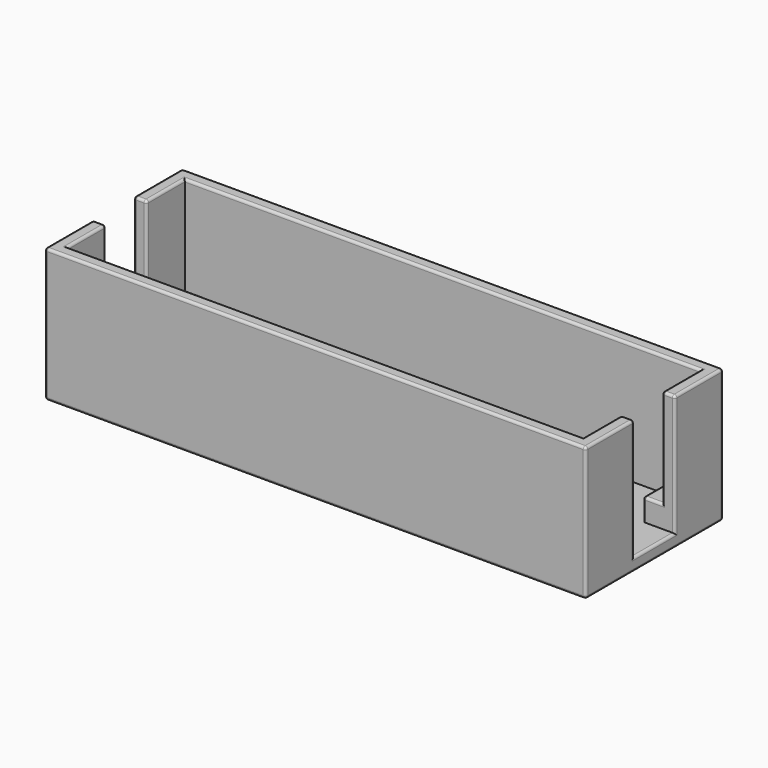
from build123d import *

# Parameters (mm, degrees)
BOX004_W     = 10
BOX004_H     = 8
BOX004_DEPTH = 30
BOX003_W     = 10
BOX003_H     = 8
BOX003_DEPTH = 30
BOX001_W     = 75
BOX001_H     = 23
BOX001_DEPTH = 30
BOX002_W     = 81
BOX002_H     = 23
BOX002_DEPTH = 30
BOX_W        = 85
BOX_H        = 27
BOX_DEPTH    = 21
FILLET_R     = 0.4


with BuildPart() as cube004:
    # Box004 → Box004 (new body)
    with BuildSketch(Plane(origin=(80, 9.5, 2), x_dir=(1, 0, 0), z_dir=(0, 0, 1))):
        with Locations((5, 4)):
            Rectangle(BOX004_W, BOX004_H)
    extrude(amount=BOX004_DEPTH)


with BuildPart() as cube003:
    # Box003 → Box003 (new body)
    with BuildSketch(Plane(origin=(-2, 9.5, 5.5), x_dir=(1, 0, 0), z_dir=(0, 0, 1))):
        with Locations((5, 4)):
            Rectangle(BOX003_W, BOX003_H)
    extrude(amount=BOX003_DEPTH)


with BuildPart() as cube001:
    # Box001 → Box001 (new body)
    with BuildSketch(Plane(origin=(5, 2, 2), x_dir=(1, 0, 0), z_dir=(0, 0, 1))):
        with Locations((37.5, 11.5)):
            Rectangle(BOX001_W, BOX001_H)
    extrude(amount=BOX001_DEPTH)


with BuildPart() as cube002:
    # Box002 → Box002 (new body)
    with BuildSketch(Plane(origin=(2, 2, 5.5), x_dir=(1, 0, 0), z_dir=(0, 0, 1))):
        with Locations((40.5, 11.5)):
            Rectangle(BOX002_W, BOX002_H)
    extrude(amount=BOX002_DEPTH)


with BuildPart() as fillet_body:
    # Box → Box (new body)
    with BuildSketch(Plane.XY):
        with Locations((42.5, 13.5)):
            Rectangle(BOX_W, BOX_H)
    extrude(amount=BOX_DEPTH)

    # Cut: cut Cube002
    add(cube002.part, mode=Mode.SUBTRACT)

    # Cut001: cut Cube001
    add(cube001.part, mode=Mode.SUBTRACT)

    # Cut002: cut Cube003
    add(cube003.part, mode=Mode.SUBTRACT)

    # Cut003: cut Cube004
    add(cube004.part, mode=Mode.SUBTRACT)

    # Fillet
    fillet_edges = [fillet_body.edges().sort_by_distance(p)[0] for p in [
        (0, 4.75, 21),
        (0, 9.5, 13.25),
        (0, 13.5, 5.5),
        (0, 17.5, 13.25),
        (0, 22.25, 21),
        (0, 27, 10.5),
        (0, 13.5, 0),
        (0, 0, 10.5),
        (1, 9.5, 21),
        (2, 5.75, 21),
        (3.5, 2, 21),
        (42.5, 2, 21),
        (81.5, 2, 21),
        (83, 5.75, 21),
        (84, 9.5, 21),
        (85, 4.75, 21),
        (42.5, 0, 21),
        (2, 9.5, 13.25),
        (2, 17.5, 13.25),
        (1, 17.5, 21),
        (84, 17.5, 21),
        (83, 21.25, 21),
        (81.5, 25, 21),
        (42.5, 25, 21),
        (3.5, 25, 21),
        (2, 21.25, 21),
        (42.5, 27, 21),
        (85, 22.25, 21),
        (42.5, 27, 0),
        (85, 27, 10.5),
        (85, 13.5, 0),
        (42.5, 0, 0),
        (85, 0, 10.5),
        (83, 9.5, 13.25),
        (85, 9.5, 11.5),
        (81.5, 9.5, 5.5),
        (80, 9.5, 3.75),
        (85, 13.5, 2),
        (85, 17.5, 11.5),
        (5, 13.5, 5.5),
        (83, 17.5, 13.25),
        (81.5, 17.5, 5.5),
        (80, 17.5, 3.75),
        (5, 5.75, 5.5),
        (80, 5.75, 5.5),
        (5, 21.25, 5.5),
        (80, 21.25, 5.5),
    ]]
    fillet(fillet_edges, radius=FILLET_R)


solid = fillet_body.part
